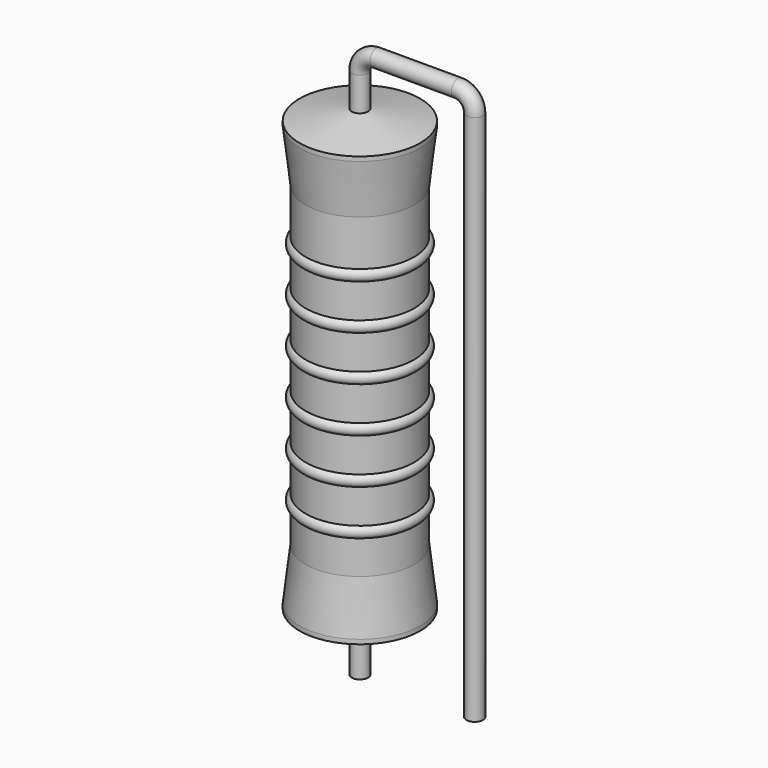
from build123d import *

# Parameters (mm, degrees)
SKETCH_R = 0.55


with BuildPart() as sweep_body:
    # Sweep: sweep along a path in Sketch001
    with BuildLine(Plane.XZ) as sweep_path:
        Line((0, -3), (0, 32.3))
        ThreePointArc((0, 32.3), (0.322178, 33.077813), (1.099987, 33.4))
        Line((1.099987, 33.4), (6.52, 33.4))
        ThreePointArc((6.52, 33.4), (7.297817, 33.077817), (7.62, 32.3))
        Line((7.62, 32.3), (7.62, -3))
    # Sketch → Sweep (sweep)
    with BuildSketch(Plane.XY.offset(-2)):
        Circle(SKETCH_R)
    sweep(path=sweep_path.line)


with BuildPart() as revolution:
    # Sketch002 → Revolution (revolve)
    with BuildSketch(Plane.XZ):
        Polygon((0, 0.1), (0, 30.1), (0.4125, 30.1), (4, 29.35), (4, 29.0575), (3.6, 25.6), (3.6, 4.6), (4, 1.1425), (4, 0.85), (0.4125, 0.1), align=None)
    revolve(axis=Axis((0, 0, 0), (0, 0, 1)))


with BuildPart() as revolution001:
    # Sketch003 → Revolution001 (revolve)
    with BuildSketch(Plane.XZ):
        with BuildLine():
            Line((3.2, 24.8), (3.2, 4.6))
            Line((3.2, 4.6), (3.44, 4.6))
            Line((3.44, 4.6), (3.44, 6.8))
            ThreePointArc((3.44, 6.8), (3.84, 7.2), (3.44, 7.6))
            Line((3.44, 7.6), (3.44, 9.8))
            ThreePointArc((3.44, 9.8), (3.84, 10.2), (3.44, 10.6))
            Line((3.44, 10.6), (3.44, 12.8))
            ThreePointArc((3.44, 12.8), (3.84, 13.2), (3.44, 13.6))
            Line((3.44, 13.6), (3.44, 15.8))
            ThreePointArc((3.44, 15.8), (3.84, 16.2), (3.44, 16.6))
            Line((3.44, 16.6), (3.44, 18.8))
            ThreePointArc((3.44, 18.8), (3.84, 19.2), (3.44, 19.6))
            Line((3.44, 19.6), (3.44, 21.8))
            ThreePointArc((3.44, 21.8), (3.84, 22.2), (3.44, 22.6))
            Line((3.44, 24.8), (3.44, 22.6))
            Line((3.2, 24.8), (3.44, 24.8))
        make_face()
    revolve(axis=Axis((0, 0, 0), (0, 0, 1)))


solid = Compound([sweep_body.part, revolution.part, revolution001.part])
